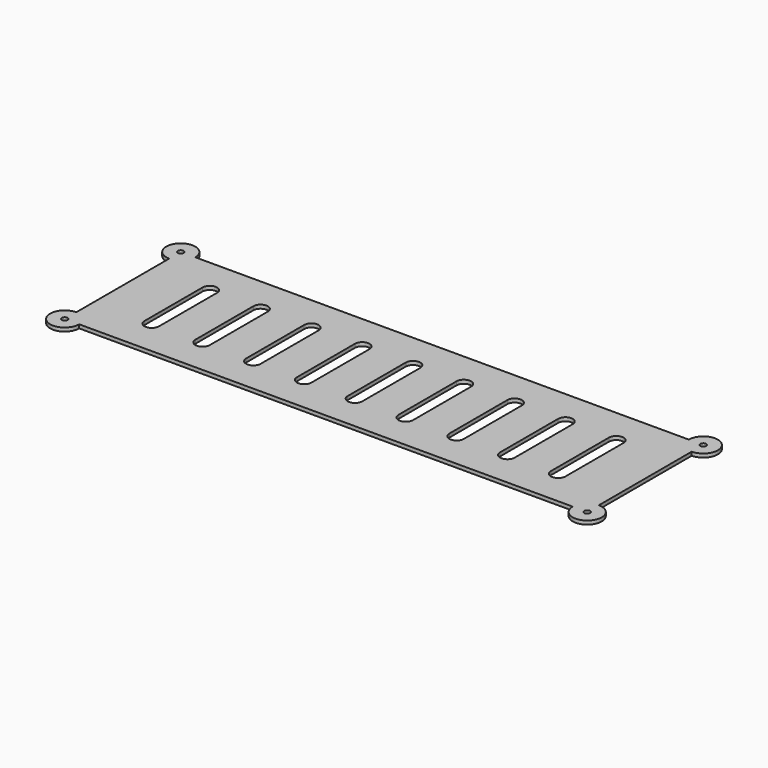
from build123d import *

# Parameters (mm, degrees)
F0_R     = 2.54
F1_DEPTH = 3.175


with BuildPart() as f1:
    # F0 (on Top) → F1 (new body)
    with BuildSketch(Plane.XY):
        with BuildLine():
            ThreePointArc((0, 12.7), (-8.980256, -8.980256), (12.7, 0))
            Line((12.7, 0), (444.5, 0))
            ThreePointArc((444.5, 0), (466.180256, -8.980256), (457.2, 12.7))
            Line((457.2, 12.7), (457.2, 114.3))
            ThreePointArc((457.2, 114.3), (466.180256, 135.980256), (444.5, 127))
            Line((444.5, 127), (12.7, 127))
            ThreePointArc((12.7, 127), (-8.980256, 135.980256), (0, 114.3))
            Line((0, 114.3), (0, 12.7))
        make_face()
        Circle(F0_R, mode=Mode.SUBTRACT)
        with BuildLine():
            Line((57.15, 95.25), (57.15, 31.75))
            ThreePointArc((57.15, 31.75), (50.8, 25.4), (44.45, 31.75))
            Line((44.45, 31.75), (44.45, 95.25))
            ThreePointArc((44.45, 95.25), (50.8, 101.6), (57.15, 95.25))
        make_face(mode=Mode.SUBTRACT)
        with BuildLine():
            Line((88.9, 31.75), (88.9, 95.25))
            ThreePointArc((88.9, 95.25), (95.25, 101.6), (101.6, 95.25))
            Line((101.6, 95.25), (101.6, 31.75))
            ThreePointArc((101.6, 31.75), (95.25, 25.4), (88.9, 31.75))
        make_face(mode=Mode.SUBTRACT)
        with BuildLine():
            Line((133.35, 31.75), (133.35, 95.25))
            ThreePointArc((133.35, 95.25), (139.7, 101.6), (146.05, 95.25))
            Line((146.05, 95.25), (146.05, 31.75))
            ThreePointArc((146.05, 31.75), (139.7, 25.4), (133.35, 31.75))
        make_face(mode=Mode.SUBTRACT)
        with BuildLine():
            Line((177.8, 31.75), (177.8, 95.25))
            ThreePointArc((177.8, 95.25), (184.15, 101.6), (190.5, 95.25))
            Line((190.5, 95.25), (190.5, 31.75))
            ThreePointArc((190.5, 31.75), (184.15, 25.4), (177.8, 31.75))
        make_face(mode=Mode.SUBTRACT)
        with Locations((457.2, 0)):
            Circle(F0_R, mode=Mode.SUBTRACT)
        with BuildLine():
            Line((222.25, 31.75), (222.25, 95.25))
            ThreePointArc((222.25, 95.25), (228.6, 101.6), (234.95, 95.25))
            Line((234.95, 95.25), (234.95, 31.75))
            ThreePointArc((234.95, 31.75), (228.6, 25.4), (222.25, 31.75))
        make_face(mode=Mode.SUBTRACT)
        with BuildLine():
            Line((266.7, 31.75), (266.7, 95.25))
            ThreePointArc((266.7, 95.25), (273.05, 101.6), (279.4, 95.25))
            Line((279.4, 95.25), (279.4, 31.75))
            ThreePointArc((279.4, 31.75), (273.05, 25.4), (266.7, 31.75))
        make_face(mode=Mode.SUBTRACT)
        with BuildLine():
            Line((311.15, 31.75), (311.15, 95.25))
            ThreePointArc((311.15, 95.25), (317.5, 101.6), (323.85, 95.25))
            Line((323.85, 95.25), (323.85, 31.75))
            ThreePointArc((323.85, 31.75), (317.5, 25.4), (311.15, 31.75))
        make_face(mode=Mode.SUBTRACT)
        with BuildLine():
            Line((355.6, 31.75), (355.6, 95.25))
            ThreePointArc((355.6, 95.25), (361.95, 101.6), (368.3, 95.25))
            Line((368.3, 95.25), (368.3, 31.75))
            ThreePointArc((368.3, 31.75), (361.95, 25.4), (355.6, 31.75))
        make_face(mode=Mode.SUBTRACT)
        with BuildLine():
            Line((400.05, 31.75), (400.05, 95.25))
            ThreePointArc((400.05, 95.25), (406.4, 101.6), (412.75, 95.25))
            Line((412.75, 95.25), (412.75, 31.75))
            ThreePointArc((412.75, 31.75), (406.4, 25.4), (400.05, 31.75))
        make_face(mode=Mode.SUBTRACT)
        with Locations((0, 127)):
            Circle(F0_R, mode=Mode.SUBTRACT)
        with Locations((457.2, 127)):
            Circle(F0_R, mode=Mode.SUBTRACT)
    extrude(amount=F1_DEPTH)


solid = f1.part
